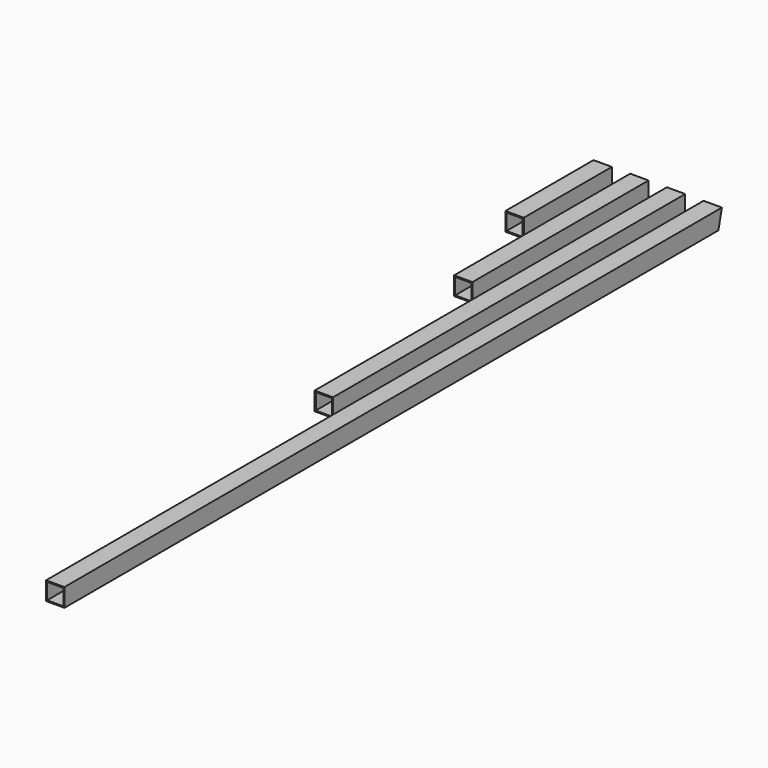
from build123d import *

# Parameters (mm, degrees)
F0_W     = 25
F0_H     = 25
F0_W_2   = 22
F0_H_2   = 22
F1_DEPTH = 600
F2_W     = 25
F2_H     = 25
F2_W_2   = 22
F2_H_2   = 22
F3_DEPTH = 300
F4_W     = 25
F4_H     = 25
F4_W_2   = 22
F4_H_2   = 22
F5_DEPTH = 1120
F7_DEPTH = 25
F8_W     = 25
F8_H     = 25
F8_W_2   = 22
F8_H_2   = 22
F9_DEPTH = 150


with BuildPart() as f1:
    # F0 (on Front) → F1 (new body)
    with BuildSketch(Plane.XZ):
        Rectangle(F0_W, F0_H)
        Rectangle(F0_W_2, F0_H_2, mode=Mode.SUBTRACT)
    extrude(amount=F1_DEPTH)


with BuildPart() as f3:
    # F2 (on Front) → F3 (new body)
    with BuildSketch(Plane.XZ):
        with Locations((-50, 0)):
            Rectangle(F2_W, F2_H)
        with Locations((-50, 0)):
            Rectangle(F2_W_2, F2_H_2, mode=Mode.SUBTRACT)
    extrude(amount=F3_DEPTH)


with BuildPart() as f5:
    # F4 (on Front) → F5 (new body)
    with BuildSketch(Plane.XZ):
        with Locations((50, 0)):
            Rectangle(F4_W, F4_H)
        with Locations((50, 0)):
            Rectangle(F4_W_2, F4_H_2, mode=Mode.SUBTRACT)
    extrude(amount=F5_DEPTH)

    # F6 (on face) → F7 (cut)
    with BuildSketch(Plane.YZ.offset(62.5)):
        Polygon((0, 12.5), (-6, -12.5), (0, -12.5), align=None)
    extrude(amount=-F7_DEPTH, mode=Mode.SUBTRACT)


with BuildPart() as f9:
    # F8 (on Front) → F9 (new body)
    with BuildSketch(Plane.XZ):
        with Locations((-100, 0)):
            Rectangle(F8_W, F8_H)
        with Locations((-100, 0)):
            Rectangle(F8_W_2, F8_H_2, mode=Mode.SUBTRACT)
    extrude(amount=F9_DEPTH)


solid = Compound([f1.part, f3.part, f5.part, f9.part])
